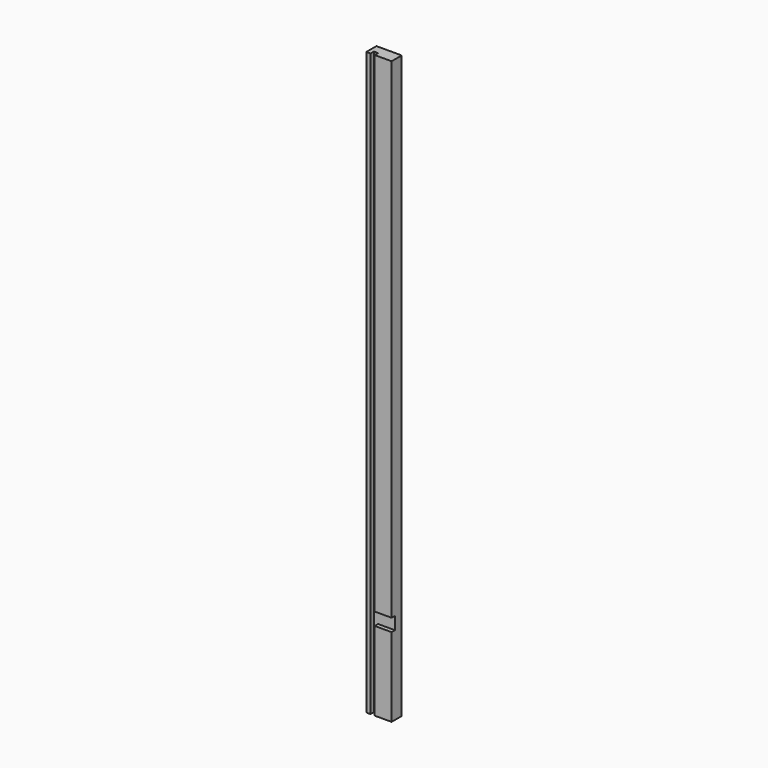
from build123d import *

# Parameters (mm, degrees)
F0_W     = 38.1
F0_H     = 438.15
F1_DEPTH = 9.525
F2_W     = 6.35
F2_H     = 876.3
F3_DEPTH = 6.35
F4_W     = 25.4
F4_H     = 19.05
F5_DEPTH = 6.35


with BuildPart() as f1:
    # F0 (on Front) → F1 (new body, symmetric)
    with BuildSketch(Plane.XZ):
        with Locations((-12.9539953259, 219.075)):
            Rectangle(F0_W, F0_H)
        with Locations((-12.9539953259, -219.075)):
            Rectangle(F0_W, F0_H)
    extrude(amount=F1_DEPTH, both=True)

    # F2 (on face) → F3 (cut)
    with BuildSketch(Plane.XZ.offset(9.525)):
        with Locations((-22.4789953259, 0)):
            Rectangle(F2_W, F2_H)
    extrude(amount=-F3_DEPTH, mode=Mode.SUBTRACT)

    # F4 (on face) → F5 (cut)
    with BuildSketch(Plane.XZ.offset(9.525)):
        with Locations((-6.6039953259, -309.5625)):
            Rectangle(F4_W, F4_H)
    extrude(amount=-F5_DEPTH, mode=Mode.SUBTRACT)


solid = f1.part
